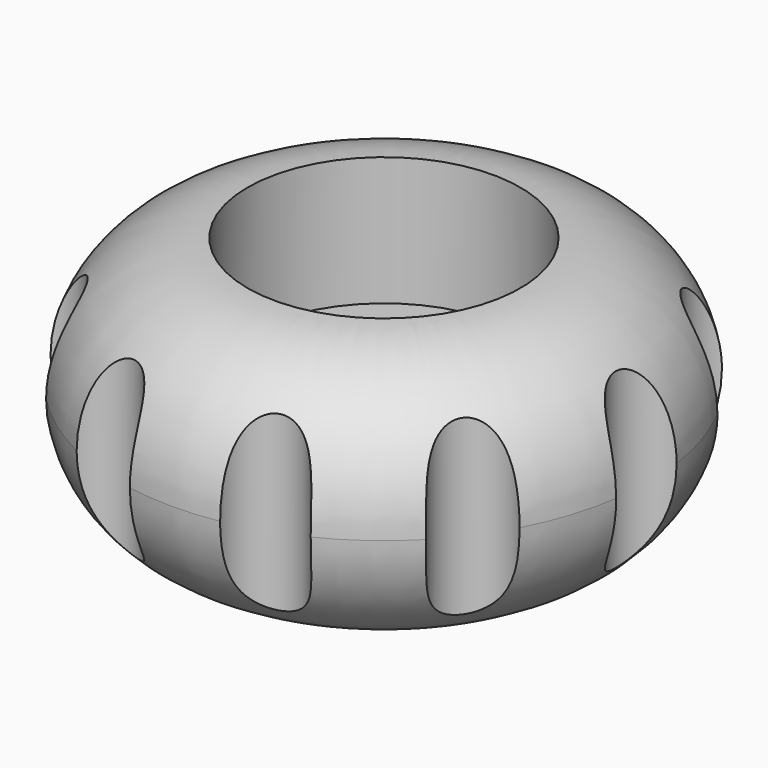
from build123d import *

# Parameters (mm, degrees)
F2_R     = 1.5
F3_DEPTH = 10


with BuildPart() as f1:
    # F0 (on Front) → F1 (revolve)
    with BuildSketch(Plane.XZ):
        with BuildLine():
            Line((-5.3, 0), (0, 0))
            Line((0, 0), (0, 5))
            Line((0, 5), (-5.3, 5))
            Line((-5.3, 5), (-5.3, 10))
            ThreePointArc((-5.3, 10), (-8.835534, 8.535534), (-10.3, 5))
            ThreePointArc((-10.3, 5), (-8.835534, 1.464466), (-5.3, 0))
        make_face()
    revolve(axis=Axis((0, 0, 2.5), (0, 0, -1)))

    # F2 (on face) → F3 (cut)
    with BuildSketch(Plane(origin=(0, 0, 0), x_dir=(1, 0, 0), z_dir=(0, 0, -1))):
        with Locations((8.494678, 6.171745)):
            Circle(F2_R)
        with Locations((10.5, 0)):
            Circle(F2_R)
        with Locations((8.494678, -6.171745)):
            Circle(F2_R)
        with Locations((3.244678, -9.986093)):
            Circle(F2_R)
        with Locations((-3.244678, -9.986093)):
            Circle(F2_R)
        with Locations((-8.494678, -6.171745)):
            Circle(F2_R)
        with Locations((-10.5, 0)):
            Circle(F2_R)
        with Locations((-8.494678, 6.171745)):
            Circle(F2_R)
        with Locations((-3.244678, 9.986093)):
            Circle(F2_R)
        with Locations((3.244678, 9.986093)):
            Circle(F2_R)
    extrude(amount=-F3_DEPTH, mode=Mode.SUBTRACT)


solid = f1.part
